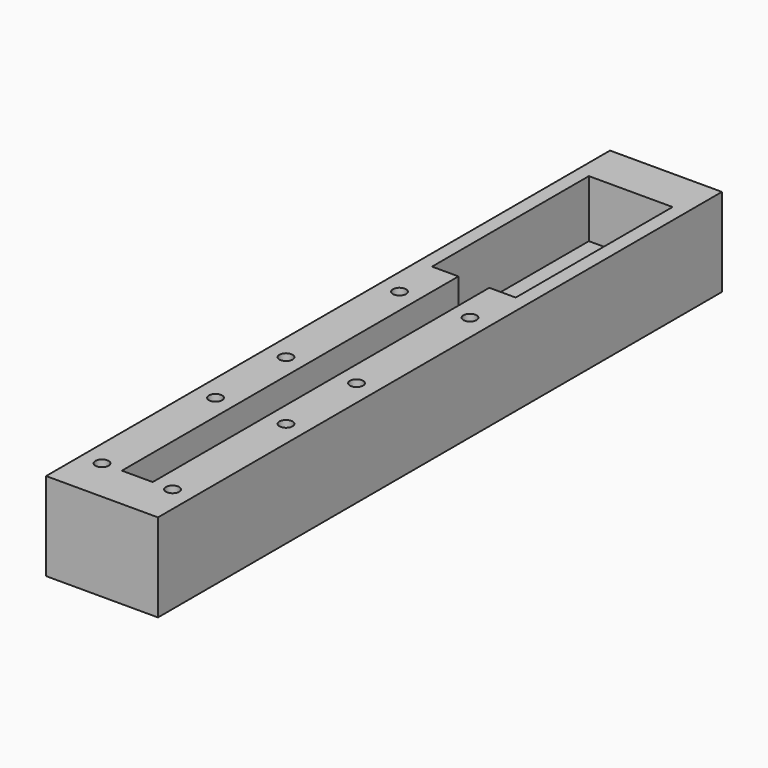
from build123d import *

# Parameters (mm, degrees)
SKETCH_W        = 25.4
SKETCH_H        = 160
PAD_DEPTH       = 20
POCKET_DEPTH    = 13
SKETCH002_R     = 1.5
POCKET001_DEPTH = 10


with BuildPart() as part:
    # Sketch → Pad (new body)
    with BuildSketch(Plane.XY):
        with Locations((0, 80)):
            Rectangle(SKETCH_W, SKETCH_H)
    extrude(amount=PAD_DEPTH)

    # Sketch001 (on Face6 of Pad) → Pocket (cut)
    with BuildSketch(Plane.XY.offset(20)):
        Polygon((-9.5, 150), (9.5, 150), (9.5, 105.5), (3.5, 105.5), (3.5, 10), (-3.5, 10), (-3.5, 105.5), (-9.5, 105.5), align=None)
    extrude(amount=-POCKET_DEPTH, mode=Mode.SUBTRACT)

    # Sketch002 (on Face5 of Pocket) → Pocket001 (cut)
    with BuildSketch(Plane.XY.offset(20)):
        with Locations((-8, 94.4)):
            Circle(SKETCH002_R)
        with Locations((-8, 62.2)):
            Circle(SKETCH002_R)
        with Locations((8, 94.4)):
            Circle(SKETCH002_R)
        with Locations((8, 62.2)):
            Circle(SKETCH002_R)
        with Locations((-8, 42.2)):
            Circle(SKETCH002_R)
        with Locations((-8, 10)):
            Circle(SKETCH002_R)
        with Locations((8, 42.2)):
            Circle(SKETCH002_R)
        with Locations((8, 10)):
            Circle(SKETCH002_R)
    extrude(amount=-POCKET001_DEPTH, mode=Mode.SUBTRACT)


solid = part.part
